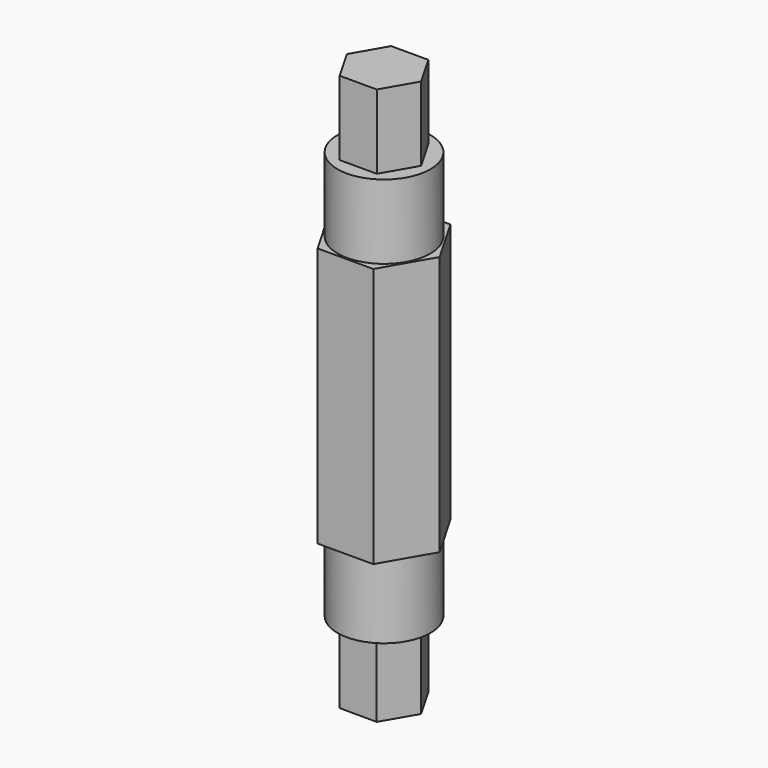
from build123d import *

# Parameters (mm, degrees)
F1_DEPTH = 70
F2_R     = 12.5
F3_DEPTH = 20
F4_R     = 12.5
F5_DEPTH = 20
F7_DEPTH = 20
F9_DEPTH = 20


with BuildPart() as f1:
    # F0 (on Top) → F1 (new body)
    with BuildSketch(Plane.XY):
        Polygon((-7.5, 12.990381), (-15, 0), (-7.5, -12.990381), (7.5, -12.990381), (15, 0), (7.5, 12.990381), align=None)
    extrude(amount=F1_DEPTH)

    # F2 (on face) → F3 (join)
    with BuildSketch(Plane.XY.offset(70)):
        Circle(F2_R)
    extrude(amount=F3_DEPTH)

    # F4 (on face) → F5 (join)
    with BuildSketch(Plane(origin=(0, 0, 0), x_dir=(1, 0, 0), z_dir=(0, 0, -1))):
        Circle(F4_R)
    extrude(amount=F5_DEPTH)

    # F6 (on face) → F7 (join)
    with BuildSketch(Plane.XY.offset(90)):
        Polygon((5, 8.660254), (-5, 8.660254), (-10, 0), (-5, -8.660254), (5, -8.660254), (10, 0), align=None)
    extrude(amount=F7_DEPTH)

    # F8 (on face) → F9 (join)
    with BuildSketch(Plane(origin=(0, 0, -20), x_dir=(1, 0, 0), z_dir=(0, 0, -1))):
        Polygon((9.999949, 0.032092), (4.972181, 8.676256), (-5.027767, 8.644163), (-9.999949, -0.032092), (-4.972181, -8.676256), (5.027767, -8.644163), align=None)
    extrude(amount=F9_DEPTH)


solid = f1.part
